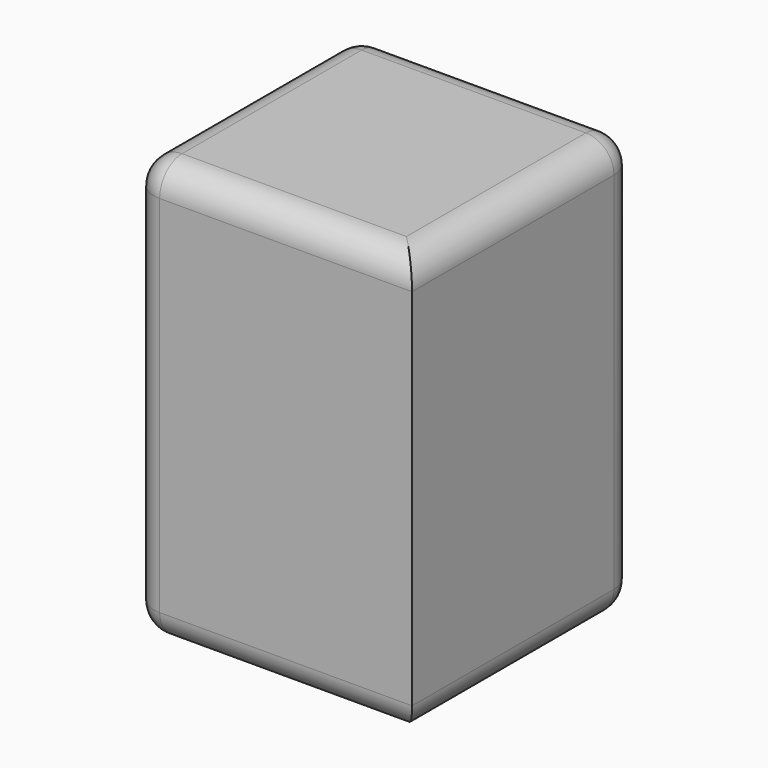
from build123d import *

# Parameters (mm, degrees)
F0_W     = 254
F0_H     = 254
F1_DEPTH = 381
F2_R     = 25.4


with BuildPart() as f1:
    # F0 (on Top) → F1 (new body)
    with BuildSketch(Plane.XY):
        with Locations((57.612817, 86.602162)):
            Rectangle(F0_W, F0_H)
    extrude(amount=F1_DEPTH)

    # F2
    f2_edges = [f1.edges().sort_by_distance(p)[0] for p in [
        (-69.387183, 86.602162, 381),
        (57.612817, -40.397838, 381),
        (184.612817, 86.602162, 381),
        (57.612817, 213.602162, 381),
        (-69.387183, 86.602162, 0),
        (57.612817, -40.397838, 0),
        (184.612817, 86.602162, 0),
        (57.612817, 213.602162, 0),
        (-69.387183, 213.602162, 190.5),
        (-69.387183, -40.397838, 190.5),
        (184.612817, 213.602162, 190.5),
    ]]
    fillet(f2_edges, radius=F2_R)


solid = f1.part
